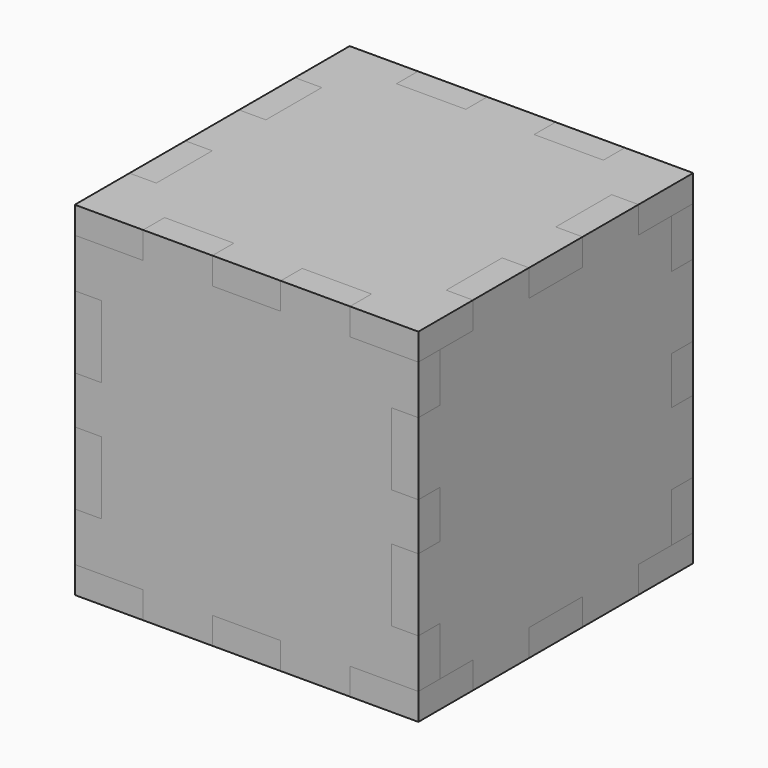
from build123d import *

# Parameters (mm, degrees)
F3_DEPTH  = 2.89
F4_START  = 34.11
F4_DEPTH  = 2.89
F6_DEPTH  = 2.89
F7_START  = -34.11
F7_DEPTH  = 2.89
F9_DEPTH  = 2.89
F10_START = 34.11
F10_DEPTH = 2.89


with BuildPart() as f3:
    # F2 (on Top) → F3 (new body)
    with BuildSketch(Plane.XY):
        Polygon((0, 7.5), (0, 0), (7.5, 0), (7.5, 2.89), (14.75, 2.89), (14.75, 0), (22.25, 0), (22.25, 2.89), (29.5, 2.89), (29.5, 0), (37, 0), (37, 7.5), (34.11, 7.5), (34.11, 14.75), (37, 14.75), (37, 22.25), (34.11, 22.25), (34.11, 29.5), (37, 29.5), (37, 37), (29.5, 37), (29.5, 34.11), (22.25, 34.11), (22.25, 37), (14.75, 37), (14.75, 34.11), (7.5, 34.11), (7.5, 37), (0, 37), (0, 29.5), (2.89, 29.5), (2.89, 22.25), (0, 22.25), (0, 14.75), (2.89, 14.75), (2.89, 7.5), align=None)
    extrude(amount=F3_DEPTH)


with BuildPart() as f4:
    # F2 (on Top) → F4 (new body)
    with BuildSketch(Plane.XY.offset(F4_START)):
        Polygon((0, 7.5), (0, 0), (7.5, 0), (7.5, 2.89), (14.75, 2.89), (14.75, 0), (22.25, 0), (22.25, 2.89), (29.5, 2.89), (29.5, 0), (37, 0), (37, 7.5), (34.11, 7.5), (34.11, 14.75), (37, 14.75), (37, 22.25), (34.11, 22.25), (34.11, 29.5), (37, 29.5), (37, 37), (29.5, 37), (29.5, 34.11), (22.25, 34.11), (22.25, 37), (14.75, 37), (14.75, 34.11), (7.5, 34.11), (7.5, 37), (0, 37), (0, 29.5), (2.89, 29.5), (2.89, 22.25), (0, 22.25), (0, 14.75), (2.89, 14.75), (2.89, 7.5), align=None)
    extrude(amount=F4_DEPTH)


with BuildPart() as f6:
    # F5 (on Front) → F6 (new body)
    with BuildSketch(Plane.XZ):
        Polygon((14.82, 37), (7.36, 37), (7.36, 34.11), (0, 34.11), (0, 28.7033333333), (2.89, 28.7033333333), (2.89, 21.2033333333), (0, 21.2033333333), (0, 15.7966666667), (2.89, 15.7966666667), (2.89, 8.2966666667), (0, 8.2966666667), (0, 2.89), (7.36, 2.89), (7.36, 0), (14.82, 0), (14.82, 2.89), (22.18, 2.89), (22.18, 0), (29.64, 0), (29.64, 2.89), (37, 2.89), (37, 8.2966666667), (34.11, 8.2966666667), (34.11, 15.7966666667), (37, 15.7966666667), (37, 21.2033333333), (34.11, 21.2033333333), (34.11, 28.7033333333), (37, 28.7033333333), (37, 34.11), (29.64, 34.11), (29.64, 37), (22.18, 37), (22.18, 34.11), (14.82, 34.11), align=None)
    extrude(amount=-F6_DEPTH)


with BuildPart() as f7:
    # F5 (on Front) → F7 (new body)
    with BuildSketch(Plane.XZ.offset(F7_START)):
        Polygon((14.82, 37), (7.36, 37), (7.36, 34.11), (0, 34.11), (0, 28.7033333333), (2.89, 28.7033333333), (2.89, 21.2033333333), (0, 21.2033333333), (0, 15.7966666667), (2.89, 15.7966666667), (2.89, 8.2966666667), (0, 8.2966666667), (0, 2.89), (7.36, 2.89), (7.36, 0), (14.82, 0), (14.82, 2.89), (22.18, 2.89), (22.18, 0), (29.64, 0), (29.64, 2.89), (37, 2.89), (37, 8.2966666667), (34.11, 8.2966666667), (34.11, 15.7966666667), (37, 15.7966666667), (37, 21.2033333333), (34.11, 21.2033333333), (34.11, 28.7033333333), (37, 28.7033333333), (37, 34.11), (29.64, 34.11), (29.64, 37), (22.18, 37), (22.18, 34.11), (14.82, 34.11), align=None)
    extrude(amount=-F7_DEPTH)


with BuildPart() as f9:
    # F8 (on Right) → F9 (new body)
    with BuildSketch(Plane.YZ):
        Polygon((29.64, 34.11), (29.64, 37), (22.11, 37), (22.11, 34.11), (14.89, 34.11), (14.89, 37), (7.36, 37), (7.36, 34.11), (2.89, 34.11), (2.89, 28.8433333333), (0, 28.8433333333), (0, 21.0633333333), (2.89, 21.0633333333), (2.89, 15.9366666667), (0, 15.9366666667), (0, 8.1566666667), (2.89, 8.1566666667), (2.89, 2.89), (7.36, 2.89), (7.36, 0), (14.89, 0), (14.89, 2.89), (22.11, 2.89), (22.11, 0), (29.64, 0), (29.64, 2.89), (34.11, 2.89), (34.11, 8.1566666667), (37, 8.1566666667), (37, 15.9366666667), (34.11, 15.9366666667), (34.11, 21.0633333333), (37, 21.0633333333), (37, 28.8433333333), (34.11, 28.8433333333), (34.11, 34.11), align=None)
    extrude(amount=F9_DEPTH)


with BuildPart() as f10:
    # F8 (on Right) → F10 (new body)
    with BuildSketch(Plane.YZ.offset(F10_START)):
        Polygon((29.64, 34.11), (29.64, 37), (22.11, 37), (22.11, 34.11), (14.89, 34.11), (14.89, 37), (7.36, 37), (7.36, 34.11), (2.89, 34.11), (2.89, 28.8433333333), (0, 28.8433333333), (0, 21.0633333333), (2.89, 21.0633333333), (2.89, 15.9366666667), (0, 15.9366666667), (0, 8.1566666667), (2.89, 8.1566666667), (2.89, 2.89), (7.36, 2.89), (7.36, 0), (14.89, 0), (14.89, 2.89), (22.11, 2.89), (22.11, 0), (29.64, 0), (29.64, 2.89), (34.11, 2.89), (34.11, 8.1566666667), (37, 8.1566666667), (37, 15.9366666667), (34.11, 15.9366666667), (34.11, 21.0633333333), (37, 21.0633333333), (37, 28.8433333333), (34.11, 28.8433333333), (34.11, 34.11), align=None)
    extrude(amount=F10_DEPTH)


solid = Compound([f3.part, f4.part, f6.part, f7.part, f9.part, f10.part])
